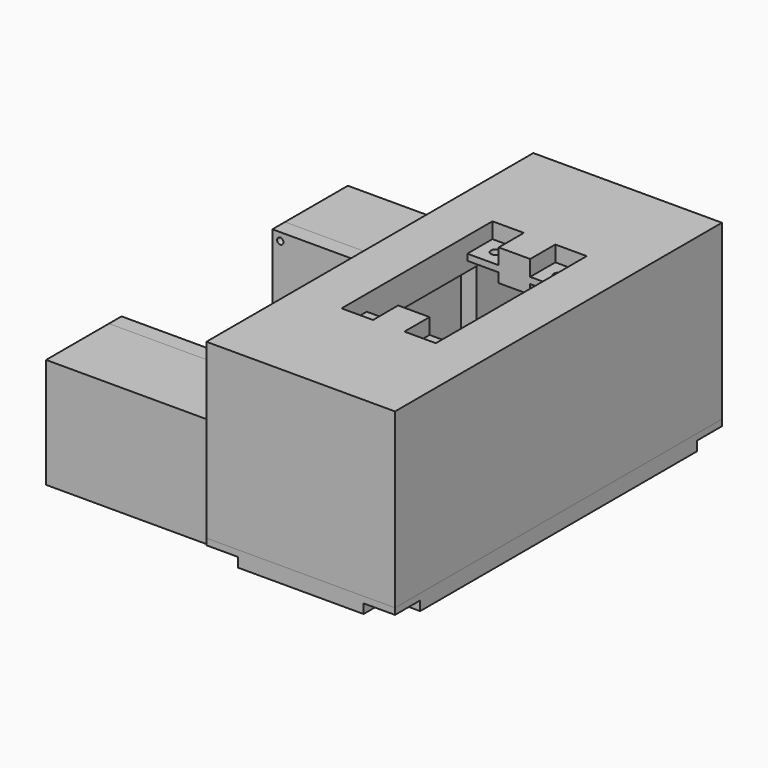
from build123d import *

# Parameters (mm, degrees)
CYLINDER002_R          = 1
CYLINDER002_DEPTH      = 3
ARRAY007_X_COUNT       = 2
ARRAY007_X_PITCH       = 50
ARRAY007_Y_COUNT       = 2
ARRAY007_Y_PITCH       = 120
CYLINDER001_R          = 1.5
CYLINDER001_DEPTH      = 4
ARRAY006_X_COUNT       = 2
ARRAY006_X_PITCH       = 20
ARRAY006_Y_COUNT       = 2
ARRAY006_Y_PITCH       = 50
CYLINDER_R             = 1
CYLINDER_DEPTH         = 74
CYLINDER_ROLL_ANGLE    = 90
ARRAY005_X_COUNT       = 2
ARRAY005_X_PITCH       = 45
ARRAY005_Y_COUNT       = 2
ARRAY005_Y_PITCH       = 30
BOX009_W               = 55
BOX009_H               = 70
BOX009_DEPTH           = 35
BOX001_W               = 50
BOX001_H               = 20
BOX001_DEPTH           = 25
ARRAY001_Y_COUNT       = 2
ARRAY001_Y_PITCH       = 90
BOX_W                  = 55
BOX_H                  = 30
BOX_DEPTH              = 35
ARRAY_Y_COUNT          = 2
ARRAY_Y_PITCH          = 90
BOX007_W               = 10
BOX007_H               = 20
BOX007_DEPTH           = 25
ARRAY004_Y_COUNT       = 2
ARRAY004_Y_PITCH       = 90
BOX005_W               = 45
BOX005_H               = 110
BOX005_DEPTH           = 45
BOX006_W               = 5
BOX006_H               = 60
BOX006_DEPTH           = 45
BOX004_W               = 10
BOX004_H               = 10
BOX004_DEPTH           = 10
ARRAY003_Y_COUNT       = 2
ARRAY003_Y_PITCH       = 50
BOX003_W               = 10
BOX003_H               = 10
BOX003_DEPTH           = 2
ARRAY002_X_COUNT       = 2
ARRAY002_X_PITCH       = 20
ARRAY002_Y_COUNT       = 2
ARRAY002_Y_PITCH       = 50
BOX002_W               = 30
BOX002_H               = 60
BOX002_DEPTH           = 10
BOX008_W               = 60
BOX008_H               = 130
BOX008_DEPTH           = 55
CYLINDER004_R          = 1
CYLINDER004_DEPTH      = 10
CYLINDER004_ROLL_ANGLE = 90
ARRAY010_X_COUNT       = 2
ARRAY010_X_PITCH       = 45
ARRAY010_Y_COUNT       = 2
ARRAY010_Y_PITCH       = 30
BOX012_W               = 55
BOX012_H               = 5
BOX012_DEPTH           = 35
ARRAY011_Y_COUNT       = 2
ARRAY011_Y_PITCH       = 65
CYLINDER007_R          = 1.5
CYLINDER007_DEPTH      = 2
ARRAY015_X_COUNT       = 2
ARRAY015_X_PITCH       = 9
BOX017_W               = 18
BOX017_H               = 10
BOX017_DEPTH           = 3
BOX016_W               = 18
BOX016_H               = 12
BOX016_DEPTH           = 5
CYLINDER009_R          = 3.5
CYLINDER009_DEPTH      = 3
CYLINDER008_R          = 1.5
CYLINDER008_DEPTH      = 2
ARRAY016_X_COUNT       = 2
ARRAY016_X_PITCH       = 9
CYLINDER006_R          = 1.5
CYLINDER006_DEPTH      = 5
CYLINDER005_R          = 3.5
CYLINDER005_DEPTH      = 3
ARRAY014_X_COUNT       = 2
ARRAY014_X_PITCH       = 18
CYLINDER003_R          = 1
CYLINDER003_DEPTH      = 6
ARRAY009_X_COUNT       = 2
ARRAY009_X_PITCH       = 50
ARRAY009_Y_COUNT       = 2
ARRAY009_Y_PITCH       = 120
BOX011_W               = 10
BOX011_H               = 10
BOX011_DEPTH           = 3
ARRAY008_X_COUNT       = 2
ARRAY008_X_PITCH       = 50
ARRAY008_Y_COUNT       = 2
ARRAY008_Y_PITCH       = 120
BOX010_W               = 60
BOX010_H               = 130
BOX010_DEPTH           = 5
PAD_DEPTH              = 20
BOX015_W               = 23
BOX015_H               = 5
BOX015_DEPTH           = 5
BOX014_W               = 23
BOX014_H               = 5
BOX014_DEPTH           = 2
BOX013_W               = 3
BOX013_H               = 5
BOX013_DEPTH           = 5
ARRAY012_X_COUNT       = 2
ARRAY012_X_PITCH       = 23.5
CHAMFER_SIZE           = 2


with BuildPart() as agujerostapa:
    # Cylinder002 → Cylinder002 (new body)
    with BuildSketch(Plane.XY):
        Circle(CYLINDER002_R)
    extrude(amount=CYLINDER002_DEPTH)

    # Array007 X: AgujerosTapa ×2


with BuildPart() as agujerostapa_1:
    add(agujerostapa.part)
    with Locations(*[(i * ARRAY007_X_PITCH, 0, 0) for i in range(1, ARRAY007_X_COUNT)]):
        add(agujerostapa.part)

    # Array007 Y: AgujerosTapa ×2


with BuildPart() as agujerostapa_2:
    add(agujerostapa_1.part)
    with Locations(*[(0, i * ARRAY007_Y_PITCH, 0) for i in range(1, ARRAY007_Y_COUNT)]):
        add(agujerostapa_1.part)


with BuildPart() as agujerostapa_3:
    # Array007 placement: moved
    add(agujerostapa_2.part.moved(Location((5, 5, 4))))


with BuildPart() as agujeros_conector:
    # Cylinder001 → Cylinder001 (new body)
    with BuildSketch(Plane.XY):
        Circle(CYLINDER001_R)
    extrude(amount=CYLINDER001_DEPTH)

    # Array006 X: Agujeros_conector ×2


with BuildPart() as agujeros_conector_1:
    add(agujeros_conector.part)
    with Locations(*[(i * ARRAY006_X_PITCH, 0, 0) for i in range(1, ARRAY006_X_COUNT)]):
        add(agujeros_conector.part)

    # Array006 Y: Agujeros_conector ×2


with BuildPart() as agujeros_conector_2:
    add(agujeros_conector_1.part)
    with Locations(*[(0, i * ARRAY006_Y_PITCH, 0) for i in range(1, ARRAY006_Y_COUNT)]):
        add(agujeros_conector_1.part)


with BuildPart() as agujeros_conector_3:
    # Array006 placement: moved
    add(agujeros_conector_2.part.moved(Location((20, 40, 53))))


with BuildPart() as agujerosmotor:
    # Cylinder → Cylinder (new body)
    with BuildSketch(Plane.XY):
        Circle(CYLINDER_R)
    extrude(amount=CYLINDER_DEPTH)


with BuildPart() as agujerosmotor_1:
    # Cylinder roll: moved
    add(agujerosmotor.part.rotate(Axis((0, 0, 0), (1, 0, 0)), CYLINDER_ROLL_ANGLE))


with BuildPart() as agujerosmotor_2:
    # Cylinder placement: moved
    add(agujerosmotor_1.part)

    # Array005 X: AgujerosMotor ×2


with BuildPart() as agujerosmotor_3:
    add(agujerosmotor_2.part)
    with Locations(*[(i * ARRAY005_X_PITCH, 0, 0) for i in range(1, ARRAY005_X_COUNT)]):
        add(agujerosmotor_2.part)

    # Array005 Y: AgujerosMotor ×2


with BuildPart() as agujerosmotor_4:
    add(agujerosmotor_3.part)
    with Locations(*[(0, 0, i * ARRAY005_Y_PITCH) for i in range(1, ARRAY005_Y_COUNT)]):
        add(agujerosmotor_3.part)


with BuildPart() as agujerosmotor_5:
    # Array005 placement: moved
    add(agujerosmotor_4.part.moved(Location((-52.5, 102, 2.5))))


with BuildPart() as cubo006:
    # Box009 → Box009 (new body)
    with BuildSketch(Plane(origin=(-55, 30, 0), x_dir=(1, 0, 0), z_dir=(0, 0, 1))):
        with Locations((27.5, 35)):
            Rectangle(BOX009_W, BOX009_H)
    extrude(amount=BOX009_DEPTH)


with BuildPart() as obj1:
    # Box001 → Box001 (new body)
    with BuildSketch(Plane.XY):
        with Locations((25, 10)):
            Rectangle(BOX001_W, BOX001_H)
    extrude(amount=BOX001_DEPTH)

    # Array001 Y: obj1_2


with BuildPart() as obj1_1:
    add(obj1.part)
    with Locations(*[(0, i * ARRAY001_Y_PITCH, 0) for i in range(1, ARRAY001_Y_COUNT)]):
        add(obj1.part)


with BuildPart() as obj1_2:
    # Array001 placement: moved
    add(obj1_1.part.moved(Location((5, 5, 5))))


with BuildPart() as obj2:
    # Box → Box (new body)
    with BuildSketch(Plane.XY):
        with Locations((27.5, 15)):
            Rectangle(BOX_W, BOX_H)
    extrude(amount=BOX_DEPTH)

    # Array Y: obj2_2


with BuildPart() as obj2_1:
    add(obj2.part)
    with Locations(*[(0, i * ARRAY_Y_PITCH, 0) for i in range(1, ARRAY_Y_COUNT)]):
        add(obj2.part)

    # Cut: cut obj1
    add(obj1_2.part, mode=Mode.SUBTRACT)


with BuildPart() as obj2_2:
    # Cut placement: moved
    add(obj2_1.part.moved(Location((-55, 5, 0))))

    # Cut004: cut Cubo006
    add(cubo006.part, mode=Mode.SUBTRACT)


with BuildPart() as array004:
    # Box007 → Box007 (new body)
    with BuildSketch(Plane.XY):
        with Locations((5, 10)):
            Rectangle(BOX007_W, BOX007_H)
    extrude(amount=BOX007_DEPTH)

    # Array004 Y: Array004 ×2


with BuildPart() as array004_1:
    add(array004.part)
    with Locations(*[(0, i * ARRAY004_Y_PITCH, 0) for i in range(1, ARRAY004_Y_COUNT)]):
        add(array004.part)


with BuildPart() as array004_2:
    # Array004 placement: moved
    add(array004_1.part.moved(Location((-10, 0, 0))))


with BuildPart() as cubo003:
    # Box005 → Box005 (new body)
    with BuildSketch(Plane.XY.offset(-5)):
        with Locations((22.5, 55)):
            Rectangle(BOX005_W, BOX005_H)
    extrude(amount=BOX005_DEPTH)


with BuildPart() as cubo004:
    # Box006 → Box006 (new body)
    with BuildSketch(Plane(origin=(-5, 25, -5), x_dir=(1, 0, 0), z_dir=(0, 0, 1))):
        with Locations((2.5, 30)):
            Rectangle(BOX006_W, BOX006_H)
    extrude(amount=BOX006_DEPTH)


with BuildPart() as array003:
    # Box004 → Box004 (new body)
    with BuildSketch(Plane(origin=(10, 0, 0), x_dir=(1, 0, 0), z_dir=(0, 0, 1))):
        with Locations((5, 5)):
            Rectangle(BOX004_W, BOX004_H)
    extrude(amount=BOX004_DEPTH)

    # Array003 Y: Array003 ×2


with BuildPart() as array003_1:
    add(array003.part)
    with Locations(*[(0, i * ARRAY003_Y_PITCH, 0) for i in range(1, ARRAY003_Y_COUNT)]):
        add(array003.part)


with BuildPart() as array002:
    # Box003 → Box003 (new body)
    with BuildSketch(Plane.XY.offset(3)):
        with Locations((5, 5)):
            Rectangle(BOX003_W, BOX003_H)
    extrude(amount=BOX003_DEPTH)

    # Array002 X: Array002 ×2


with BuildPart() as array002_1:
    add(array002.part)
    with Locations(*[(i * ARRAY002_X_PITCH, 0, 0) for i in range(1, ARRAY002_X_COUNT)]):
        add(array002.part)

    # Array002 Y: Array002 ×2


with BuildPart() as array002_2:
    add(array002_1.part)
    with Locations(*[(0, i * ARRAY002_Y_PITCH, 0) for i in range(1, ARRAY002_Y_COUNT)]):
        add(array002_1.part)


with BuildPart() as interiorcarcasa:
    # Box002 → Box002 (new body)
    with BuildSketch(Plane.XY):
        with Locations((15, 30)):
            Rectangle(BOX002_W, BOX002_H)
    extrude(amount=BOX002_DEPTH)

    # Cut001: cut Array002
    add(array002_2.part, mode=Mode.SUBTRACT)

    # Cut002: cut Array003
    add(array003_1.part, mode=Mode.SUBTRACT)


with BuildPart() as interiorcarcasa_1:
    # Cut002 placement: moved
    add(interiorcarcasa.part.moved(Location((5, 25, 40))))

    # Fusion: union Cubo003, Cubo004
    add(cubo003.part)
    add(cubo004.part)


with BuildPart() as interiorcarcasa_2:
    # Fusion placement: moved
    add(interiorcarcasa_1.part.moved(Location((0, 0, 5))))

    # Fusion001: union Array004
    add(array004_2.part)


with BuildPart() as interiorcarcasa_3:
    # Fusion001 placement: moved
    add(interiorcarcasa_2.part.moved(Location((10, 10, 0))))


with BuildPart() as obj3:
    # Box008 → Box008 (new body)
    with BuildSketch(Plane.XY):
        with Locations((30, 65)):
            Rectangle(BOX008_W, BOX008_H)
    extrude(amount=BOX008_DEPTH)

    # Cut003: cut InteriorCarcasa
    add(interiorcarcasa_3.part, mode=Mode.SUBTRACT)


with BuildPart() as obj3_1:
    # Cut003 placement: moved
    add(obj3.part.moved(Location((0, 0, 5))))

    # Fusion002: union obj2
    add(obj2_2.part)

    # Cut005: cut AgujerosMotor
    add(agujerosmotor_5.part, mode=Mode.SUBTRACT)

    # Cut006: cut Agujeros_conector
    add(agujeros_conector_3.part, mode=Mode.SUBTRACT)

    # Cut007: cut AgujerosTapa
    add(agujerostapa_3.part, mode=Mode.SUBTRACT)


with BuildPart() as agujerostapamotor:
    # Cylinder004 → Cylinder004 (new body)
    with BuildSketch(Plane.XY):
        Circle(CYLINDER004_R)
    extrude(amount=CYLINDER004_DEPTH)


with BuildPart() as agujerostapamotor_1:
    # Cylinder004 roll: moved
    add(agujerostapamotor.part.rotate(Axis((0, 0, 0), (1, 0, 0)), CYLINDER004_ROLL_ANGLE))


with BuildPart() as agujerostapamotor_2:
    # Cylinder004 placement: moved
    add(agujerostapamotor_1.part)

    # Array010 X: AgujerosTapaMotor ×2


with BuildPart() as agujerostapamotor_3:
    add(agujerostapamotor_2.part)
    with Locations(*[(i * ARRAY010_X_PITCH, 0, 0) for i in range(1, ARRAY010_X_COUNT)]):
        add(agujerostapamotor_2.part)

    # Array010 Y: AgujerosTapaMotor ×2


with BuildPart() as agujerostapamotor_4:
    add(agujerostapamotor_3.part)
    with Locations(*[(0, 0, i * ARRAY010_Y_PITCH) for i in range(1, ARRAY010_Y_COUNT)]):
        add(agujerostapamotor_3.part)


with BuildPart() as agujerostapamotor_5:
    # Array010 placement: moved
    add(agujerostapamotor_4.part.moved(Location((2.5, 8, 2.5))))


with BuildPart() as tapasmotor:
    # Box012 → Box012 (new body)
    with BuildSketch(Plane.XY):
        with Locations((27.5, 2.5)):
            Rectangle(BOX012_W, BOX012_H)
    extrude(amount=BOX012_DEPTH)

    # Cut010: cut AgujerosTapaMotor
    add(agujerostapamotor_5.part, mode=Mode.SUBTRACT)

    # Array011 Y: TapasMotor ×2


with BuildPart() as tapasmotor_1:
    add(tapasmotor.part)
    with Locations(*[(0, i * ARRAY011_Y_PITCH, 0) for i in range(1, ARRAY011_Y_COUNT)]):
        add(tapasmotor.part)


with BuildPart() as tapasmotor_2:
    # Array011 placement: moved
    add(tapasmotor_1.part.moved(Location((-55, 30, 0))))


with BuildPart() as soporte5v_agujeros:
    # Cylinder007 → Cylinder007 (new body)
    with BuildSketch(Plane.XY):
        Circle(CYLINDER007_R)
    extrude(amount=CYLINDER007_DEPTH)

    # Array015 X: Soporte5v_agujeros ×2


with BuildPart() as soporte5v_agujeros_1:
    add(soporte5v_agujeros.part)
    with Locations(*[(i * ARRAY015_X_PITCH, 0, 0) for i in range(1, ARRAY015_X_COUNT)]):
        add(soporte5v_agujeros.part)


with BuildPart() as soporte5v_agujeros_2:
    # Array015 placement: moved
    add(soporte5v_agujeros_1.part.moved(Location((4.5, 5, 0))))


with BuildPart() as soporte5v_hueco:
    # Box017 → Box017 (new body)
    with BuildSketch(Plane.XY.offset(2)):
        with Locations((9, 5)):
            Rectangle(BOX017_W, BOX017_H)
    extrude(amount=BOX017_DEPTH)


with BuildPart() as cut014:
    # Box016 → Box016 (new body)
    with BuildSketch(Plane.XY):
        with Locations((9, 6)):
            Rectangle(BOX016_W, BOX016_H)
    extrude(amount=BOX016_DEPTH)

    # Cut013: cut Soporte5v_hueco
    add(soporte5v_hueco.part, mode=Mode.SUBTRACT)

    # Cut014: cut Soporte5v_agujeros
    add(soporte5v_agujeros_2.part, mode=Mode.SUBTRACT)


with BuildPart() as cut014_1:
    # Cut014 placement: moved
    add(cut014.part.moved(Location((32, 18, 5))))


with BuildPart() as tapa_base_agujerosoporteext:
    # Cylinder009 → Cylinder009 (new body)
    with BuildSketch(Plane(origin=(36.5, 23, 5), x_dir=(1, 0, 0), z_dir=(0, 0, 1))):
        Circle(CYLINDER009_R)
    extrude(amount=CYLINDER009_DEPTH)


with BuildPart() as tapa_base_agujerossoporte:
    # Cylinder008 → Cylinder008 (new body)
    with BuildSketch(Plane(origin=(36.5, 23, 8), x_dir=(1, 0, 0), z_dir=(0, 0, 1))):
        Circle(CYLINDER008_R)
    extrude(amount=CYLINDER008_DEPTH)

    # Fusion006: union Tapa_base_AgujeroSoporteExt
    add(tapa_base_agujerosoporteext.part)

    # Array016 X: Tapa_base_AgujerosSoporte ×2


with BuildPart() as tapa_base_agujerossoporte_1:
    add(tapa_base_agujerossoporte.part)
    with Locations(*[(i * ARRAY016_X_PITCH, 0, 0) for i in range(1, ARRAY016_X_COUNT)]):
        add(tapa_base_agujerossoporte.part)


with BuildPart() as tapa_base_agujerossoporte_2:
    # Array016 placement: moved
    add(tapa_base_agujerossoporte_1.part.moved(Location((0, 0, -5))))


with BuildPart() as cilindro001:
    # Cylinder006 → Cylinder006 (new body)
    with BuildSketch(Plane.XY):
        Circle(CYLINDER006_R)
    extrude(amount=CYLINDER006_DEPTH)


with BuildPart() as agujeroscontrolmotor:
    # Cylinder005 → Cylinder005 (new body)
    with BuildSketch(Plane.XY):
        Circle(CYLINDER005_R)
    extrude(amount=CYLINDER005_DEPTH)

    # Fusion004: union Cilindro001
    add(cilindro001.part)

    # Array014 X: AgujerosControlMotor ×2


with BuildPart() as agujeroscontrolmotor_1:
    add(agujeroscontrolmotor.part)
    with Locations(*[(i * ARRAY014_X_PITCH, 0, 0) for i in range(1, ARRAY014_X_COUNT)]):
        add(agujeroscontrolmotor.part)


with BuildPart() as agujeroscontrolmotor_2:
    # Array014 placement: moved
    add(agujeroscontrolmotor_1.part.moved(Location((32, 68, 0))))


with BuildPart() as obj4:
    # Cylinder003 → Cylinder003 (new body)
    with BuildSketch(Plane.XY):
        Circle(CYLINDER003_R)
    extrude(amount=CYLINDER003_DEPTH)

    # Array009 X: obj4_2


with BuildPart() as obj4_1:
    add(obj4.part)
    with Locations(*[(i * ARRAY009_X_PITCH, 0, 0) for i in range(1, ARRAY009_X_COUNT)]):
        add(obj4.part)

    # Array009 Y: obj4_2


with BuildPart() as obj4_2:
    add(obj4_1.part)
    with Locations(*[(0, i * ARRAY009_Y_PITCH, 0) for i in range(1, ARRAY009_Y_COUNT)]):
        add(obj4_1.part)


with BuildPart() as obj4_3:
    # Array009 placement: moved
    add(obj4_2.part.moved(Location((5, 5, 0))))


with BuildPart() as huecostapa:
    # Box011 → Box011 (new body)
    with BuildSketch(Plane.XY):
        with Locations((5, 5)):
            Rectangle(BOX011_W, BOX011_H)
    extrude(amount=BOX011_DEPTH)

    # Array008 X: huecosTapa ×2


with BuildPart() as huecostapa_1:
    add(huecostapa.part)
    with Locations(*[(i * ARRAY008_X_PITCH, 0, 0) for i in range(1, ARRAY008_X_COUNT)]):
        add(huecostapa.part)

    # Array008 Y: huecosTapa ×2


with BuildPart() as huecostapa_2:
    add(huecostapa_1.part)
    with Locations(*[(0, i * ARRAY008_Y_PITCH, 0) for i in range(1, ARRAY008_Y_COUNT)]):
        add(huecostapa_1.part)


with BuildPart() as cut015:
    # Box010 → Box010 (new body)
    with BuildSketch(Plane.XY):
        with Locations((30, 65)):
            Rectangle(BOX010_W, BOX010_H)
    extrude(amount=BOX010_DEPTH)

    # Cut008: cut huecosTapa
    add(huecostapa_2.part, mode=Mode.SUBTRACT)

    # Cut009: cut obj4
    add(obj4_3.part, mode=Mode.SUBTRACT)

    # Cut012: cut AgujerosControlMotor
    add(agujeroscontrolmotor_2.part, mode=Mode.SUBTRACT)

    # Sketch → Pad (new body)
    with BuildSketch(Plane.XY.offset(5)):
        Polygon((11, 100), (11, 95), (28, 95), (28, 119), (23, 119), (23, 100), align=None)
        Polygon((11, 35), (28, 35), (28, 11), (23, 11), (23, 30), (11, 30), align=None)
    extrude(amount=PAD_DEPTH)

    # Cut015: cut Tapa_base_AgujerosSoporte
    add(tapa_base_agujerossoporte_2.part, mode=Mode.SUBTRACT)


with BuildPart() as pared5v:
    # Box015 → Box015 (new body)
    with BuildSketch(Plane(origin=(1.75, 22, 0), x_dir=(1, 0, 0), z_dir=(0, 0, 1))):
        with Locations((11.5, 2.5)):
            Rectangle(BOX015_W, BOX015_H)
    extrude(amount=BOX015_DEPTH)


with BuildPart() as clavijas5v_hueco:
    # Box014 → Box014 (new body)
    with BuildSketch(Plane(origin=(1.75, 0, 0), x_dir=(1, 0, 0), z_dir=(0, 0, 1))):
        with Locations((11.5, 2.5)):
            Rectangle(BOX014_W, BOX014_H)
    extrude(amount=BOX014_DEPTH)


with BuildPart() as tapa:
    # Box013 → Box013 (new body)
    with BuildSketch(Plane.XY):
        with Locations((1.5, 2.5)):
            Rectangle(BOX013_W, BOX013_H)
    extrude(amount=BOX013_DEPTH)

    # Array012 X: Tapa ×2


with BuildPart() as tapa_1:
    add(tapa.part)
    with Locations(*[(i * ARRAY012_X_PITCH, 0, 0) for i in range(1, ARRAY012_X_COUNT)]):
        add(tapa.part)

    # Cut011: cut Clavijas5v_hueco
    add(clavijas5v_hueco.part, mode=Mode.SUBTRACT)

    # Chamfer
    chamfer_edges = [tapa_1.edges().sort_by_distance(p)[0] for p in [
        (3, 2.5, 5),
        (23.5, 2.5, 5),
    ]]
    chamfer(chamfer_edges, length=CHAMFER_SIZE)


with BuildPart() as tapa_2:
    # Chamfer placement: moved
    add(tapa_1.part.moved(Location((0, 11, 0))))

    # Fusion005: union Pared5v
    add(pared5v.part)


with BuildPart() as tapa_3:
    # Fusion005 placement: moved
    add(tapa_2.part.moved(Location((27.5, 25, 5))))

    # Fusion007: union Cut015
    add(cut015.part)


solid = Compound([obj3_1.part, tapasmotor_2.part, cut014_1.part, tapa_3.part])
